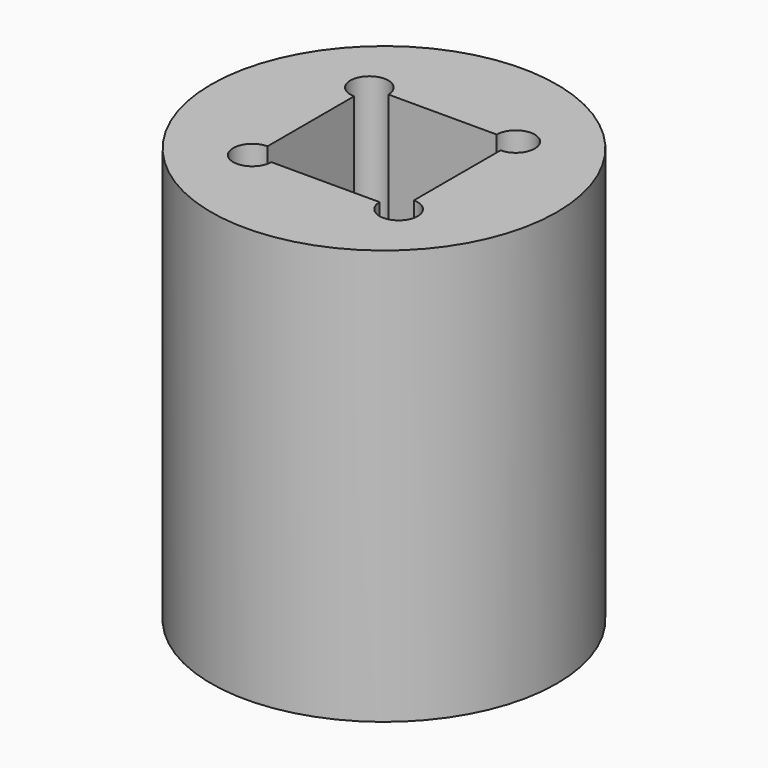
from build123d import *

# Parameters (mm, degrees)
F0_R     = 7.5
F1_DEPTH = 18


with BuildPart() as f1:
    # F0 (on Top) → F1 (new body)
    with BuildSketch(Plane.XY):
        Circle(F0_R)
        with BuildLine():
            ThreePointArc((3.175, -2.3495), (3.758717, -3.758717), (2.3495, -3.175))
            Line((2.3495, -3.175), (-2.3495, -3.175))
            ThreePointArc((-2.3495, -3.175), (-3.758717, -3.758717), (-3.175, -2.3495))
            Line((-3.175, -2.3495), (-3.175, 2.3495))
            ThreePointArc((-3.175, 2.3495), (-3.758717, 3.758717), (-2.3495, 3.175))
            Line((-2.3495, 3.175), (2.3495, 3.175))
            ThreePointArc((2.3495, 3.175), (3.758717, 3.758717), (3.175, 2.3495))
            Line((3.175, 2.3495), (3.175, -2.3495))
        make_face(mode=Mode.SUBTRACT)
    extrude(amount=F1_DEPTH)


solid = f1.part
